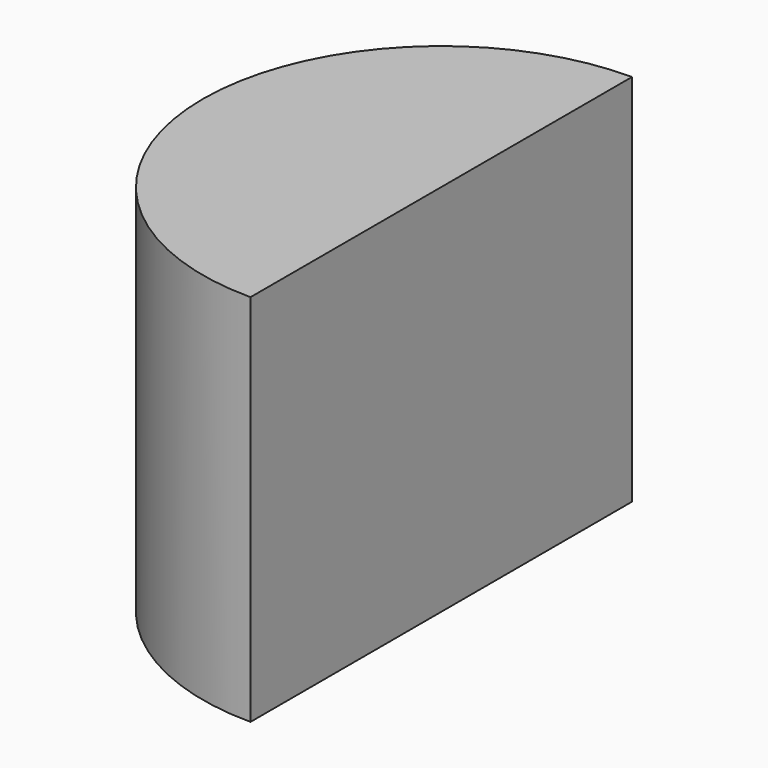
from build123d import *

# Parameters (mm, degrees)
F1_DEPTH = 31.115


with BuildPart() as f1:
    # F0 (on Top) → F1 (new body, symmetric)
    with BuildSketch(Plane.XY):
        with BuildLine():
            Line((0, -39.6865496146), (0, 39.6865496146))
            ThreePointArc((0, 39.6865496146), (-39.6865496146, 0), (0, -39.6865496146))
        make_face()
    extrude(amount=F1_DEPTH, both=True)


solid = f1.part
